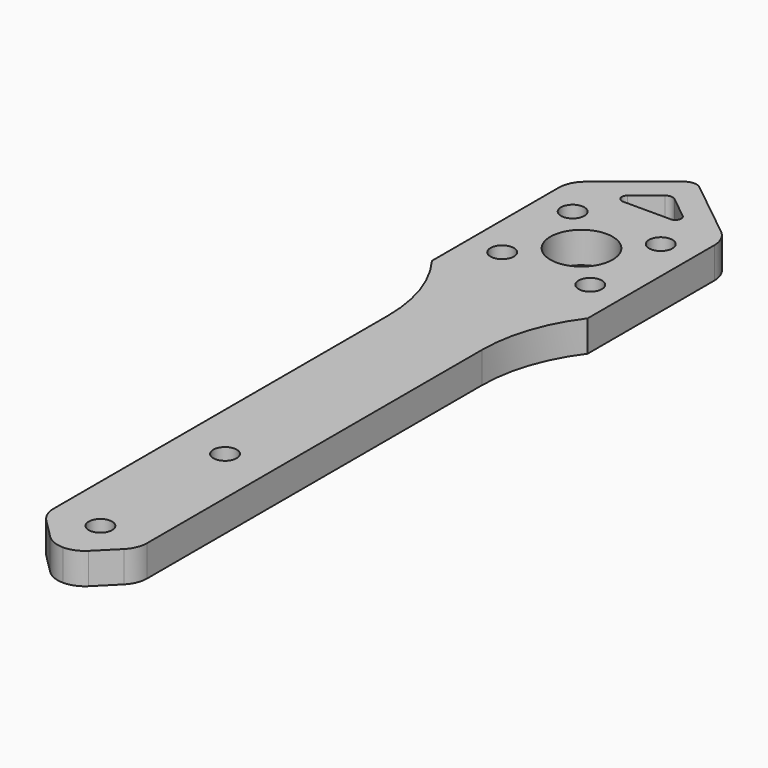
from build123d import *

# Parameters (mm, degrees)
F0_R     = 1.5
F0_R_2   = 4
F1_DEPTH = 4


with BuildPart() as f1:
    # F0 (on Top) → F1 (new body)
    with BuildSketch(Plane.XY):
        with BuildLine():
            Line((6, -77.216061), (6, -23.5))
            ThreePointArc((6, -23.5), (7.026334, -17.175445), (10, -11.5))
            Line((10, -11.5), (10, 8.817813))
            ThreePointArc((10, 8.817813), (9.654561, 10.333974), (8.686433, 11.550854))
            Line((8.686433, 11.550854), (0.937043, 17.750366))
            ThreePointArc((0.937043, 17.750366), (0, 18.079063), (-0.937043, 17.750366))
            Line((-0.937043, 17.750366), (-8.686433, 11.550854))
            ThreePointArc((-8.686433, 11.550854), (-9.654561, 10.333974), (-10, 8.817813))
            Line((-10, 8.817813), (-10, -11.5))
            ThreePointArc((-10, -11.5), (-7.026334, -17.175445), (-6, -23.5))
            Line((-6, -23.5), (-6, -77.216061))
            ThreePointArc((-6, -77.216061), (-5.733578, -78.555453), (-4.974874, -79.690934))
            Line((-4.974874, -79.690934), (-2.474874, -82.190934))
            ThreePointArc((-2.474874, -82.190934), (-1.339392, -82.949639), (0, -83.216061))
            ThreePointArc((0, -83.216061), (1.339392, -82.949639), (2.474874, -82.190934))
            Line((2.474874, -82.190934), (4.974874, -79.690934))
            ThreePointArc((4.974874, -79.690934), (5.733578, -78.555453), (6, -77.216061))
        make_face()
        with Locations((0, -77.216061)):
            Circle(F0_R, mode=Mode.SUBTRACT)
        with Locations((0, -57.216061)):
            Circle(F0_R, mode=Mode.SUBTRACT)
        with Locations((-5.656854, -5.656854)):
            Circle(F0_R, mode=Mode.SUBTRACT)
        with Locations((-5.656854, 5.656854)):
            Circle(F0_R, mode=Mode.SUBTRACT)
        Circle(F0_R_2, mode=Mode.SUBTRACT)
        with BuildLine():
            Line((3.059571, 10.5), (0, 10.5))
            Line((0, 10.5), (-3.059571, 10.5))
            ThreePointArc((-3.059571, 10.5), (-3.767292, 11.001745), (-3.528092, 11.835652))
            Line((-3.528092, 11.835652), (-0.624695, 14.158369))
            ThreePointArc((-0.624695, 14.158369), (0, 14.377501), (0.624695, 14.158369))
            Line((0.624695, 14.158369), (3.528092, 11.835652))
            ThreePointArc((3.528092, 11.835652), (3.767292, 11.001745), (3.059571, 10.5))
        make_face(mode=Mode.SUBTRACT)
        with Locations((5.656854, -5.656854)):
            Circle(F0_R, mode=Mode.SUBTRACT)
        with Locations((5.656854, 5.656854)):
            Circle(F0_R, mode=Mode.SUBTRACT)
    extrude(amount=F1_DEPTH)


solid = f1.part
